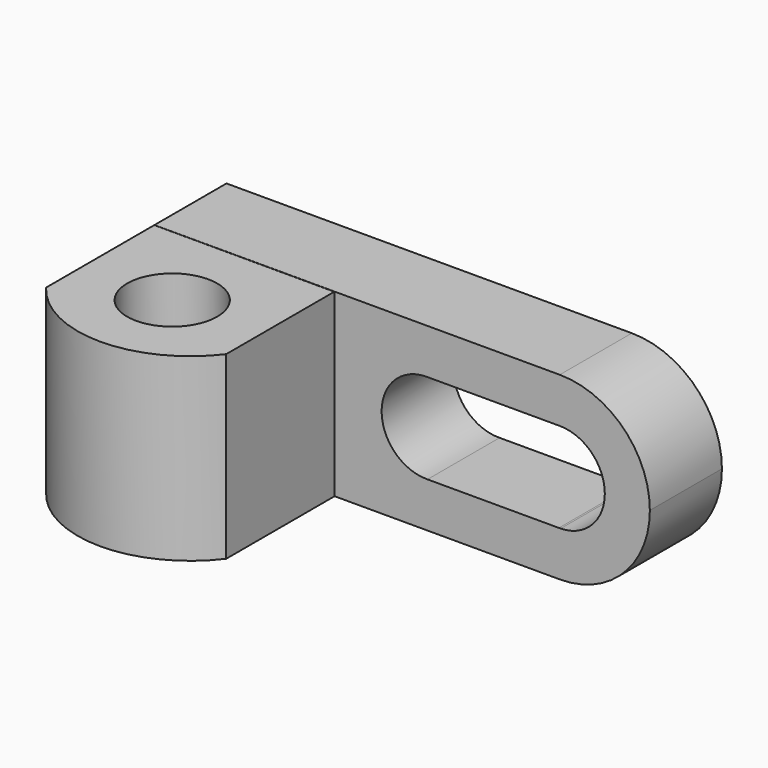
from build123d import *

# Parameters (mm, degrees)
F1_DEPTH  = 12.7
F3_DEPTH  = 12.7
F4_DEPTH  = 12.7
F5_DEPTH  = 25.4
F6_DEPTH  = 12.7
F8_DEPTH  = 12.7
F10_DEPTH = 12.701
F11_R     = 6.35
F12_DEPTH = 12.701
F13_R     = 6.35
F14_DEPTH = 12.701
F15_DEPTH = 12.701


with BuildPart() as f1:
    # F0 (on Front) → F1 (new body)
    with BuildSketch(Plane.XZ):
        with BuildLine():
            ThreePointArc((57.15, -12.7), (66.1302561211, -8.9802561211), (69.85, 0))
            ThreePointArc((69.85, 0), (66.1302561211, 8.9802561211), (57.15, 12.7))
            ThreePointArc((57.15, 12.7), (44.45, 0), (57.15, -12.7))
        make_face()
        with BuildLine():
            ThreePointArc((57.15, -12.7), (44.45, 0), (57.15, 12.7))
            Line((57.15, 12.7), (0, 12.7))
            Line((0, 12.7), (0, -12.7))
            Line((0, -12.7), (57.15, -12.7))
        make_face()
    extrude(amount=F1_DEPTH)

    # F9 (on face) → F10 (cut, through all)
    with BuildSketch(Plane.XZ.offset(12.7)):
        with BuildLine():
            ThreePointArc((57.2695409589, -6.3488747002), (61.6821951133, -4.4476631455), (63.5, 0))
            ThreePointArc((63.5, 0), (61.640016598, 4.4902395203), (57.1496847402, 6.3499999922))
            ThreePointArc((57.1496847402, 6.3499999922), (50.8002798493, 0.0596155047), (57.0304590411, -6.3488747002))
            Line((57.0304590411, -6.3488747002), (57.2695409589, -6.3488747002))
        make_face()
        with BuildLine():
            ThreePointArc((57.0304590411, -6.3488747002), (50.8002798493, 0.0596155047), (57.1496847402, 6.3499999922))
            Line((57.1496847402, 6.3499999922), (38.4893314074, 6.3490735576))
            ThreePointArc((38.4893314074, 6.3490735576), (42.909179354, 4.4516142219), (44.7308650076, 0))
            ThreePointArc((44.7308650076, 0), (42.9130601209, -4.4476631455), (38.5004059666, -6.3488747002))
            Line((38.5004059666, -6.3488747002), (57.0304590411, -6.3488747002))
        make_face()
        with BuildLine():
            ThreePointArc((57.0304590411, -6.3488747002), (57.15, -6.35), (57.2695409589, -6.3488747002))
            Line((57.2695409589, -6.3488747002), (57.0304590411, -6.3488747002))
        make_face()
        with BuildLine():
            Line((38.2717681808, 6.3490627562), (38.4893314074, 6.3490735576))
            ThreePointArc((38.4893314074, 6.3490735576), (38.3805497478, 6.3499999922), (38.2717681808, 6.3490627562))
        make_face()
        with BuildLine():
            ThreePointArc((44.7308650076, 0), (42.909179354, 4.4516142219), (38.4893314074, 6.3490735576))
            Line((38.4893314074, 6.3490735576), (38.2717681808, 6.3490627562))
            ThreePointArc((38.2717681808, 6.3490627562), (32.0318941318, -0.1143189316), (38.5004059666, -6.3488747002))
            ThreePointArc((38.5004059666, -6.3488747002), (42.9130601209, -4.4476631455), (44.7308650076, 0))
        make_face()
    extrude(amount=-F10_DEPTH, mode=Mode.SUBTRACT)

    # F13 (on Top) → F14 (cut, through all)
    with BuildSketch(Plane.XY):
        with Locations((12.7, -25.4434416966)):
            Circle(F13_R)
    extrude(amount=-F14_DEPTH, mode=Mode.SUBTRACT)


with BuildPart() as f3:
    # F2 (on Top) → F3 (new body)
    with BuildSketch(Plane.XY):
        Polygon((25.4, -12.7495970972), (0, -12.7362702521), (0, -31.7934416966), (25.4, -31.7934416966), align=None)
        with BuildLine():
            Line((25.4, -31.7934416966), (0, -31.7934416966))
            ThreePointArc((0, -31.7934416966), (12.7, -38.1434416966), (25.4, -31.7934416966))
        make_face()
    extrude(amount=F3_DEPTH)

    # F4 (add): a face of the model
    f4_faces = [f3.faces().sort_by_distance(p)[0] for p in [
        (12.6987990519, -24.5571554059, 0),
    ]]
    extrude(f4_faces, amount=F4_DEPTH)

    # F2 (on Top) → F5 (join)
    with BuildSketch(Plane.XY):
        Polygon((25.4, -12.7495970972), (0, -12.7362702521), (0, -31.7934416966), (25.4, -31.7934416966), align=None)
        with BuildLine():
            Line((25.4, -31.7934416966), (0, -31.7934416966))
            ThreePointArc((0, -31.7934416966), (12.7, -38.1434416966), (25.4, -31.7934416966))
        make_face()
    extrude(amount=-F5_DEPTH)

    # F2 (on Top) → F6 (join)
    with BuildSketch(Plane.XY):
        Polygon((25.4, -12.7495970972), (0, -12.7362702521), (0, -31.7934416966), (25.4, -31.7934416966), align=None)
        with BuildLine():
            Line((25.4, -31.7934416966), (0, -31.7934416966))
            ThreePointArc((0, -31.7934416966), (12.7, -38.1434416966), (25.4, -31.7934416966))
        make_face()
    extrude(amount=-F6_DEPTH)

    # F7 (on face) → F8 (cut)
    with BuildSketch(Plane(origin=(0, 0, -25.4), x_dir=(1, 0, 0), z_dir=(0, 0, -1))):
        with BuildLine():
            Line((0, 12.7362702521), (25.4, 12.7495970972))
            Line((25.4, 12.7495970972), (25.4, 31.7934416966))
            ThreePointArc((25.4, 31.7934416966), (12.7, 38.1434416966), (0, 31.7934416966))
            Line((0, 31.7934416966), (0, 12.7362702521))
        make_face()
    extrude(amount=-F8_DEPTH, mode=Mode.SUBTRACT)

    # F11 (on Top) → F12 (cut, through all)
    with BuildSketch(Plane.XY):
        with Locations((12.7, -25.4434416966)):
            Circle(F11_R)
    extrude(amount=-F12_DEPTH, mode=Mode.SUBTRACT)

    # F13 (on Top) → F15 (cut, through all)
    with BuildSketch(Plane.XY):
        with Locations((12.7, -25.4434416966)):
            Circle(F13_R)
    extrude(amount=F15_DEPTH, mode=Mode.SUBTRACT)


solid = Compound([f1.part, f3.part])
